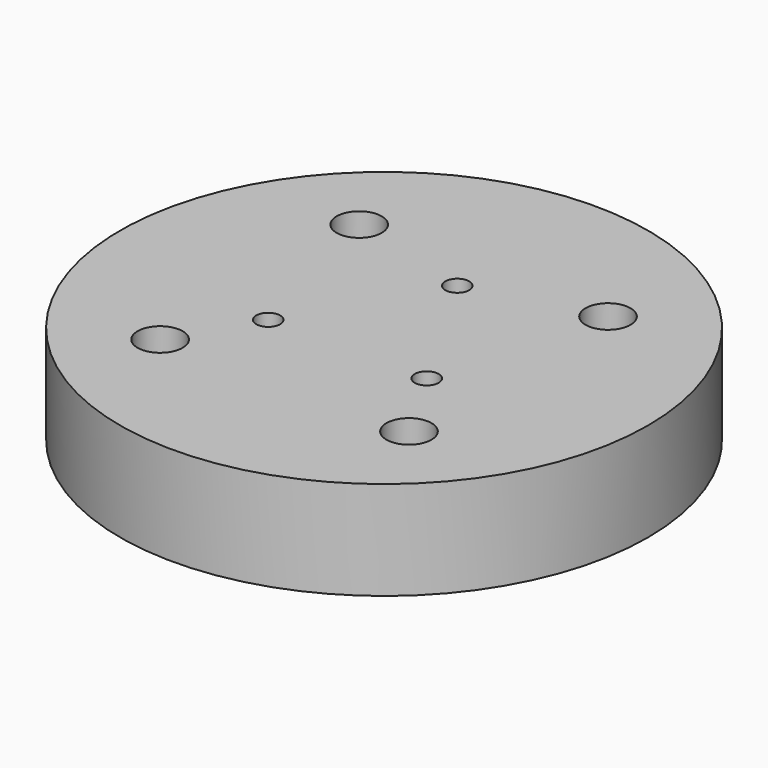
from build123d import *

# Parameters (mm, degrees)
SKETCH_R        = 37.5
SKETCH_R_2      = 1.7
SKETCH_R_3      = 3.2
PAD_DEPTH       = 8
SKETCH001_R     = 37.5
SKETCH001_R_2   = 31.8
PAD001_DEPTH    = 6
SKETCH002_R     = 2.5
PAD002_DEPTH    = 5
SKETCH003_R     = 15.6
PAD003_DEPTH    = 6
SKETCH004_R     = 4
POCKET_DEPTH    = 6
CHAMFER_SIZE    = 2.1
CHAMFER001_SIZE = 2.1
CHAMFER002_SIZE = 2.1


with BuildPart() as part:
    # Sketch → Pad (new body)
    with BuildSketch(Plane.XY):
        Circle(SKETCH_R)
        with Locations((-11.25833, -6.5)):
            Circle(SKETCH_R_2, mode=Mode.SUBTRACT)
        with Locations((11.25833, -6.5)):
            Circle(SKETCH_R_2, mode=Mode.SUBTRACT)
        with Locations((0, 13)):
            Circle(SKETCH_R_2, mode=Mode.SUBTRACT)
        with Locations((-17.67767, 17.67767)):
            Circle(SKETCH_R_3, mode=Mode.SUBTRACT)
        with Locations((17.67767, 17.67767)):
            Circle(SKETCH_R_3, mode=Mode.SUBTRACT)
        with Locations((-17.67767, -17.67767)):
            Circle(SKETCH_R_3, mode=Mode.SUBTRACT)
        with Locations((17.67767, -17.67767)):
            Circle(SKETCH_R_3, mode=Mode.SUBTRACT)
    extrude(amount=PAD_DEPTH)

    # Sketch001 → Pad001 (new body)
    with BuildSketch(Plane(origin=(0, 0, 0), x_dir=(1, 0, 0), z_dir=(0, 0, -1))):
        Circle(SKETCH001_R)
        Circle(SKETCH001_R_2, mode=Mode.SUBTRACT)
    extrude(amount=PAD001_DEPTH)

    # Sketch002 → Pad002 (new body)
    with BuildSketch(Plane(origin=(0, 0, 0), x_dir=(1, 0, 0), z_dir=(0, 0, -1))):
        with Locations((0, 25)):
            Circle(SKETCH002_R)
    extrude(amount=PAD002_DEPTH)

    # Sketch003 → Pad003 (new body)
    with BuildSketch(Plane(origin=(0, 0, 0), x_dir=(1, 0, 0), z_dir=(0, 0, -1))):
        Circle(SKETCH003_R)
    extrude(amount=PAD003_DEPTH)

    # Sketch004 → Pocket (cut)
    with BuildSketch(Plane(origin=(0, 0, -6), x_dir=(1, 0, 0), z_dir=(0, 0, -1))):
        with Locations((-11.25833, 6.5)):
            Circle(SKETCH004_R)
        with Locations((11.25833, 6.5)):
            Circle(SKETCH004_R)
        with Locations((0, -13)):
            Circle(SKETCH004_R)
    extrude(amount=-POCKET_DEPTH, mode=Mode.SUBTRACT)

    # Chamfer
    chamfer_edges = [part.edges().sort_by_distance(p)[0] for p in [
        (9.55833, -6.5, 0),
    ]]
    chamfer(chamfer_edges, length=CHAMFER_SIZE)

    # Chamfer001
    chamfer001_edges = [part.edges().sort_by_distance(p)[0] for p in [
        (-12.95833, -6.5, 0),
    ]]
    chamfer(chamfer001_edges, length=CHAMFER001_SIZE)

    # Chamfer002
    chamfer002_edges = [part.edges().sort_by_distance(p)[0] for p in [
        (-1.7, 13, 0),
    ]]
    chamfer(chamfer002_edges, length=CHAMFER002_SIZE)


solid = part.part
